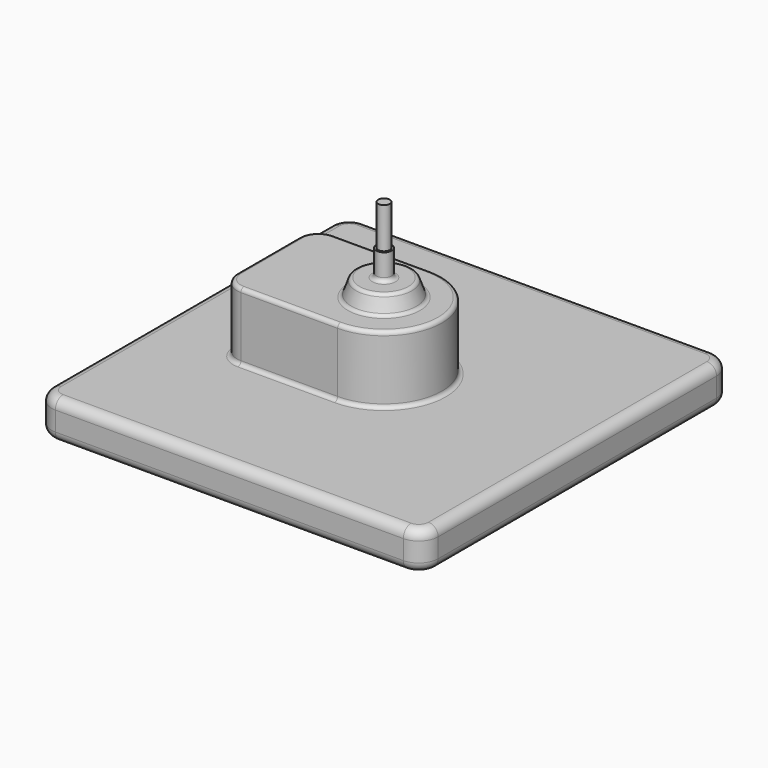
from build123d import *

# Parameters (mm, degrees)
SKETCH_W     = 200
SKETCH_H     = 200
PAD_DEPTH    = 20
SKETCH002_W  = 60
SKETCH002_H  = 60
PAD001_DEPTH = 35
SKETCH003_R  = 4
PAD002_DEPTH = 13.5
SKETCH004_R  = 3
PAD003_DEPTH = 21
SKETCH005_R  = 1.4
POCKET_DEPTH = 3
FILLET_R     = 10
FILLET001_R  = 5
FILLET002_R  = 2
FILLET003_R  = 2


with BuildPart() as part:
    # Sketch → Pad (new body)
    with BuildSketch(Plane.XY):
        Rectangle(SKETCH_W, SKETCH_H)
    extrude(amount=PAD_DEPTH)

    # Sketch001 → Revolution (revolve)
    with BuildSketch(Plane.YZ):
        Polygon((0, 20), (0, 63.959639), (14, 63.959639), (30, 20), align=None)
    revolve(axis=Axis((0, 0, 0), (0, 0, 1)))

    # Sketch002 (on Face3 of Revolution) → Pad001 (join)
    with BuildSketch(Plane.XY.offset(20)):
        with Locations((-30, 0)):
            Rectangle(SKETCH002_W, SKETCH002_H)
    extrude(amount=PAD001_DEPTH)

    # Sketch003 (on Face1 of Pad001) → Pad002 (join)
    with BuildSketch(Plane.XY.offset(63.959639)):
        Circle(SKETCH003_R)
    extrude(amount=PAD002_DEPTH)

    # Sketch004 (on Face8 of Pad002) → Pad003 (join)
    with BuildSketch(Plane.XY.offset(77.459639)):
        Circle(SKETCH004_R)
    extrude(amount=PAD003_DEPTH)

    # Sketch005 (on Face14 of Pad003) → Pocket (cut)
    with BuildSketch(Plane(origin=(-60, 0, 0), x_dir=(0, -1, 0), z_dir=(-1, 0, 0))):
        with Locations((-7, 49)):
            Circle(SKETCH005_R)
        with Locations((7, 49)):
            Circle(SKETCH005_R)
    extrude(amount=-POCKET_DEPTH, mode=Mode.SUBTRACT)

    # Fillet
    fillet_edges = [part.edges().sort_by_distance(p)[0] for p in [
        (-100, -100, 10),
        (100, -100, 10),
        (100, 100, 10),
        (-100, 100, 10),
        (-60, -30, 37.5),
        (-60, 30, 37.5),
    ]]
    fillet(fillet_edges, radius=FILLET_R)

    # Fillet001
    fillet001_edges = [part.edges().sort_by_distance(p)[0] for p in [
        (-100, 0, 20),
        (-100, 0, 0),
    ]]
    fillet(fillet001_edges, radius=FILLET001_R)

    # Sketch006 (on Face27 of Fillet001) → Revolution001 (revolve)
    with BuildSketch(Plane.YZ):
        Polygon((-30, 55), (-30, 20), (-17.261042, 55), align=None)
    revolve(axis=Axis((0, 0, 0), (0, 0, 1)))

    # Fillet002
    fillet002_edges = [part.edges().sort_by_distance(p)[0] for p in [
        (-25, -30, 20),
        (-25, -30, 55),
        (17.261042, 0, 55),
        (0, -14, 63.959639),
    ]]
    fillet(fillet002_edges, radius=FILLET002_R)

    # Fillet003
    fillet003_edges = [part.edges().sort_by_distance(p)[0] for p in [
        (-4, 0, 63.959639),
    ]]
    fillet(fillet003_edges, radius=FILLET003_R)


solid = part.part
